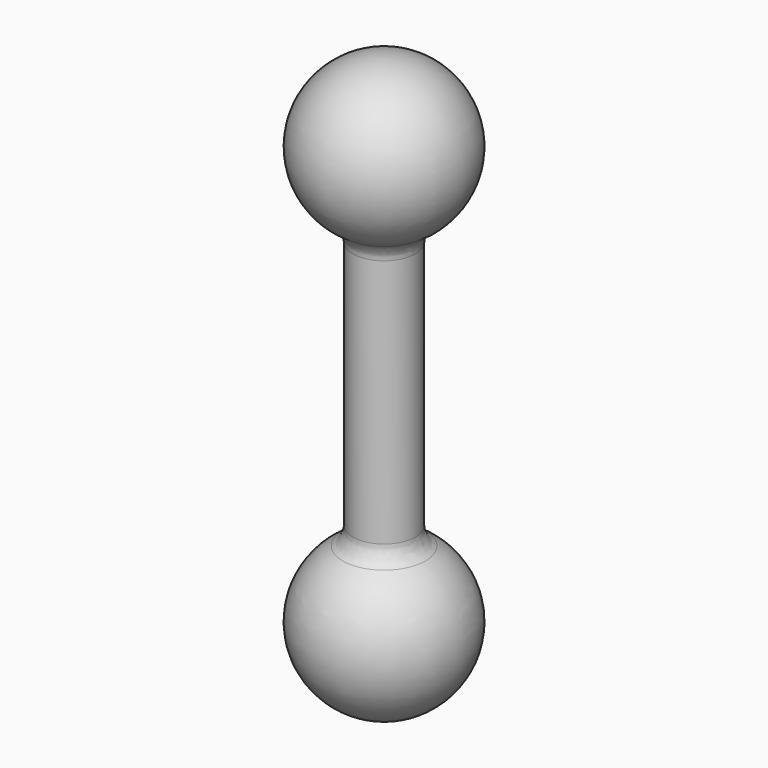
from build123d import *

# Parameters (mm, degrees)
F2_R = 10


with BuildPart() as f1:
    # F0 (on Front) → F1 (revolve)
    with BuildSketch(Plane.XZ):
        with BuildLine():
            Line((0, 37.5), (0, 0))
            Line((0, 0), (0, -37.5))
            ThreePointArc((0, -37.5), (36.708987, -7.661612), (15, 34.369318))
            ThreePointArc((15, 34.369318), (7.661612, 36.708987), (0, 37.5))
        make_face()
        with BuildLine():
            Line((0, 162.5), (0, 37.5))
            ThreePointArc((0, 37.5), (7.661612, 36.708987), (15, 34.369318))
            Line((15, 34.369318), (15, 165.630682))
            ThreePointArc((15, 165.630682), (7.661612, 163.291013), (0, 162.5))
        make_face()
        with BuildLine():
            Line((0, 200), (0, 162.5))
            ThreePointArc((0, 162.5), (7.661612, 163.291013), (15, 165.630682))
            ThreePointArc((15, 165.630682), (36.708987, 207.661612), (0, 237.5))
            Line((0, 237.5), (0, 200))
        make_face()
    revolve(axis=Axis((0, 0, 100), (0, 0, 1)))

    # F2
    f2_edges = [f1.edges().sort_by_distance(p)[0] for p in [
        (-15, 0, 34.369318),
        (-15, 0, 165.630682),
        (15, 0, 100),
    ]]
    fillet(f2_edges, radius=F2_R)


solid = f1.part
